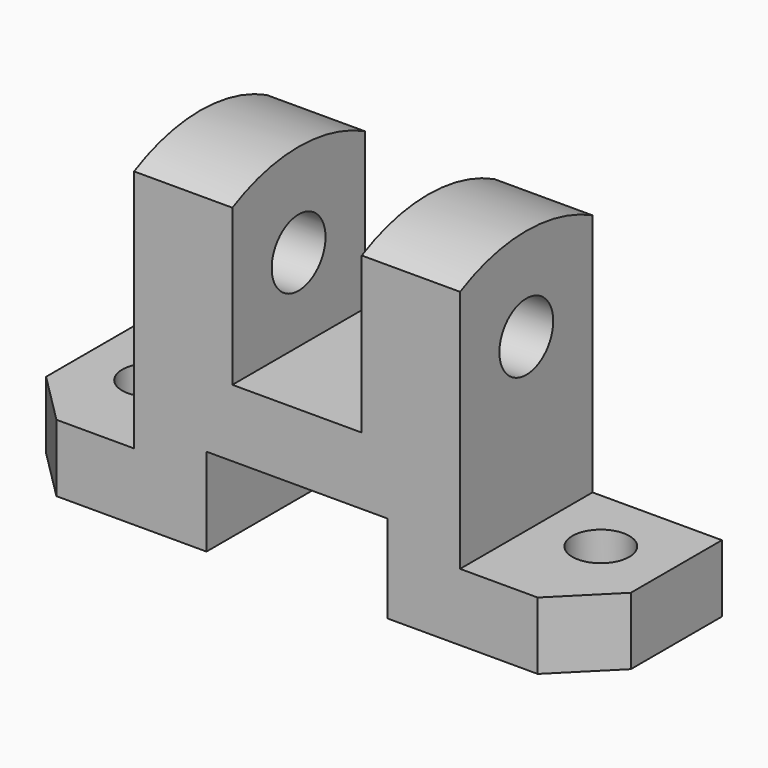
from build123d import *

# Parameters (mm, degrees)
F1_DEPTH  = 32
F2_R      = 5.5
F3_DEPTH  = 13.001
F4_R      = 5.5
F5_DEPTH  = 13.001
F7_DEPTH  = 13.001
F9_DEPTH  = 13.001
F10_R     = 6.5
F11_DEPTH = 88.001
F13_DEPTH = 88.001


with BuildPart() as f1:
    # F0 (on Front) → F1 (new body)
    with BuildSketch(Plane.XZ):
        Polygon((0, 13), (0, 0), (39, 0), (39, 17), (74, 17), (74, 0), (113, 0), (113, 13), (88, 13), (88, 64), (69, 64), (69, 30), (44, 30), (44, 64), (25, 64), (25, 13), align=None)
    extrude(amount=-F1_DEPTH)

    # F2 (on face) → F3 (cut, through all)
    with BuildSketch(Plane.XY.offset(13)):
        with Locations((13, 19)):
            Circle(F2_R)
    extrude(amount=-F3_DEPTH, mode=Mode.SUBTRACT)

    # F4 (on face) → F5 (cut, through all)
    with BuildSketch(Plane.XY.offset(13)):
        with Locations((100, 19)):
            Circle(F4_R)
    extrude(amount=-F5_DEPTH, mode=Mode.SUBTRACT)

    # F6 (on face) → F7 (cut, through all)
    with BuildSketch(Plane.XY.offset(13)):
        Polygon((0, 10), (0, 0), (10, 0), align=None)
    extrude(amount=-F7_DEPTH, mode=Mode.SUBTRACT)

    # F8 (on face) → F9 (cut, through all)
    with BuildSketch(Plane.XY.offset(13)):
        Polygon((103, 0), (113, 0), (113, 10), align=None)
    extrude(amount=-F9_DEPTH, mode=Mode.SUBTRACT)

    # F10 (on face) → F11 (cut, through all)
    with BuildSketch(Plane.YZ.offset(88)):
        with Locations((16, 46)):
            Circle(F10_R)
    extrude(amount=-F11_DEPTH, mode=Mode.SUBTRACT)

    # F12 (on face) → F13 (cut, through all)
    with BuildSketch(Plane.YZ.offset(88)):
        with BuildLine():
            ThreePointArc((0, 60.128765), (16, 64), (32, 60.128765))
            Line((32, 60.128765), (32, 70.128765))
            Line((32, 70.128765), (0, 70.128765))
            Line((0, 70.128765), (0, 60.128765))
        make_face()
    extrude(amount=-F13_DEPTH, mode=Mode.SUBTRACT)


solid = f1.part
